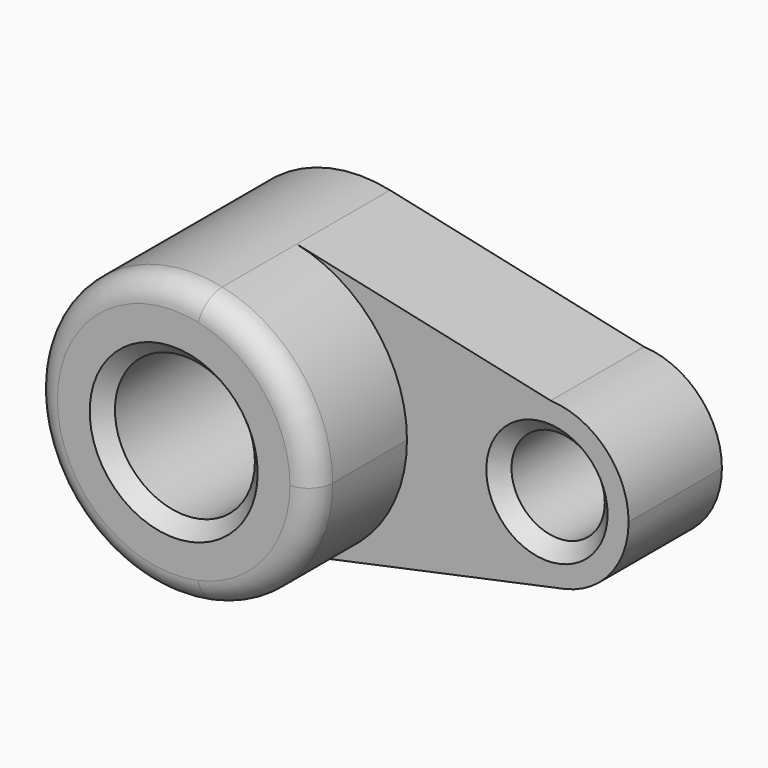
from build123d import *

# Parameters (mm, degrees)
F0_R     = 15
F0_R_2   = 10
F1_DEPTH = 25
F2_DEPTH = 50
F3_R     = 5.08
F4_SIZE  = 3


with BuildPart() as f1:
    # F0 (on Front) → F1 (new body)
    with BuildSketch(Plane.XZ):
        with BuildLine():
            ThreePointArc((6.25, -29.341736), (23.318448, -18.874586), (30, 0))
            ThreePointArc((30, 0), (23.357967, 18.825657), (6.372975, 29.315272))
            ThreePointArc((6.372975, 29.315272), (-29.999934, 0.062895), (6.25, -29.341736))
        make_face()
        Circle(F0_R, mode=Mode.SUBTRACT)
        with BuildLine():
            ThreePointArc((6.372975, 29.315272), (23.357967, 18.825657), (30, 0))
            ThreePointArc((30, 0), (23.318448, -18.874586), (6.25, -29.341736))
            Line((6.25, -29.341736), (63.645833, -17.116013))
            ThreePointArc((63.645833, -17.116013), (42.558559, -1.430429), (60.808394, 17.481319))
            Line((60.808394, 17.481319), (6.372975, 29.315272))
        make_face()
        with BuildLine():
            ThreePointArc((77.5, 0), (72.656953, 12.085179), (60.808394, 17.481319))
            ThreePointArc((60.808394, 17.481319), (42.558559, -1.430429), (63.645833, -17.116013))
            ThreePointArc((63.645833, -17.116013), (73.602428, -11.010175), (77.5, 0))
        make_face()
        with Locations((60, 0)):
            Circle(F0_R_2, mode=Mode.SUBTRACT)
    extrude(amount=F1_DEPTH)

    # F0 (on Front) → F2 (join)
    with BuildSketch(Plane.XZ):
        with BuildLine():
            ThreePointArc((6.25, -29.341736), (23.318448, -18.874586), (30, 0))
            ThreePointArc((30, 0), (23.357967, 18.825657), (6.372975, 29.315272))
            ThreePointArc((6.372975, 29.315272), (-29.999934, 0.062895), (6.25, -29.341736))
        make_face()
        Circle(F0_R, mode=Mode.SUBTRACT)
    extrude(amount=F2_DEPTH)

    # F3
    f3_edges = [f1.edges().sort_by_distance(p)[0] for p in [
        (-6.25, -50, 29.341736),
    ]]
    fillet(f3_edges, radius=F3_R)

    # F4
    f4_edges = [f1.edges().sort_by_distance(p)[0] for p in [
        (-15, -50, 0),
        (50, -25, 0),
    ]]
    chamfer(f4_edges, length=F4_SIZE)


solid = f1.part
